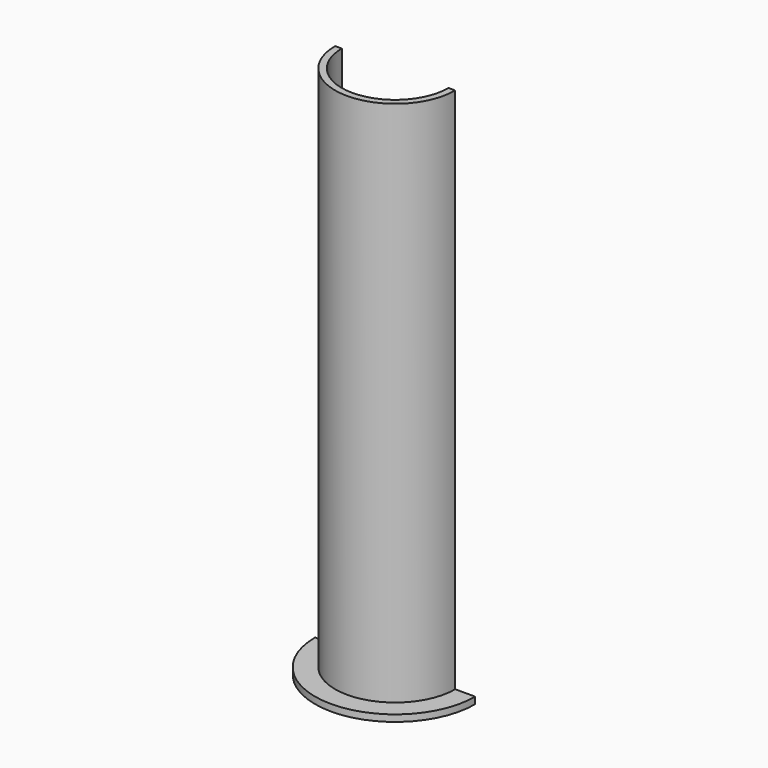
from build123d import *

# Parameters (mm, degrees)
F0_W     = 3.81
F0_H     = 1.27
F1_ANGLE = 180
F2_ANGLE = 180
F4_DEPTH = 1.27


with BuildPart() as f1:
    # F0 (on Front) → F1 (revolve)
    with BuildSketch(Plane.XZ):
        with Locations((-1.905, 0.635)):
            Rectangle(F0_W, F0_H)
        Polygon((0, 1.27), (0, 0), (1.27, 0), (1.27, 101.6), (0, 101.6), align=None)
    revolve(axis=Axis((11.43, 0, 50.8), (0, 0, 1)), revolution_arc=F1_ANGLE)


with BuildPart() as f2:
    # F0 (on Front) → F2 (revolve)
    with BuildSketch(Plane.XZ):
        Polygon((0, 1.27), (0, 0), (1.27, 0), (1.27, 101.6), (0, 101.6), align=None)
        with Locations((-1.905, 0.635)):
            Rectangle(F0_W, F0_H)
    revolve(axis=Axis((11.43, 0, 50.8), (0, 0, 1)), revolution_arc=F2_ANGLE)


with BuildPart() as f4:
    # F3 (on face) → F4 (new body)
    with BuildSketch(Plane(origin=(0, 0, 0), x_dir=(1, 0, 0), z_dir=(0, 0, -1))):
        with BuildLine():
            ThreePointArc((3.81, 0), (11.43, 7.62), (19.05, 0))
            Line((19.05, 0), (21.59, 0))
            ThreePointArc((21.59, 0), (11.43, 10.16), (1.27, 0))
            Line((1.27, 0), (3.81, 0))
        make_face()
        with BuildLine():
            ThreePointArc((1.27, 0), (11.43, 10.16), (21.59, 0))
            Line((21.59, 0), (26.67, 0))
            ThreePointArc((26.67, 0), (11.43, 15.24), (-3.81, 0))
            Line((-3.81, 0), (1.27, 0))
        make_face()
    extrude(amount=-F4_DEPTH)


solid = Compound([f1.part, f2.part, f4.part])
